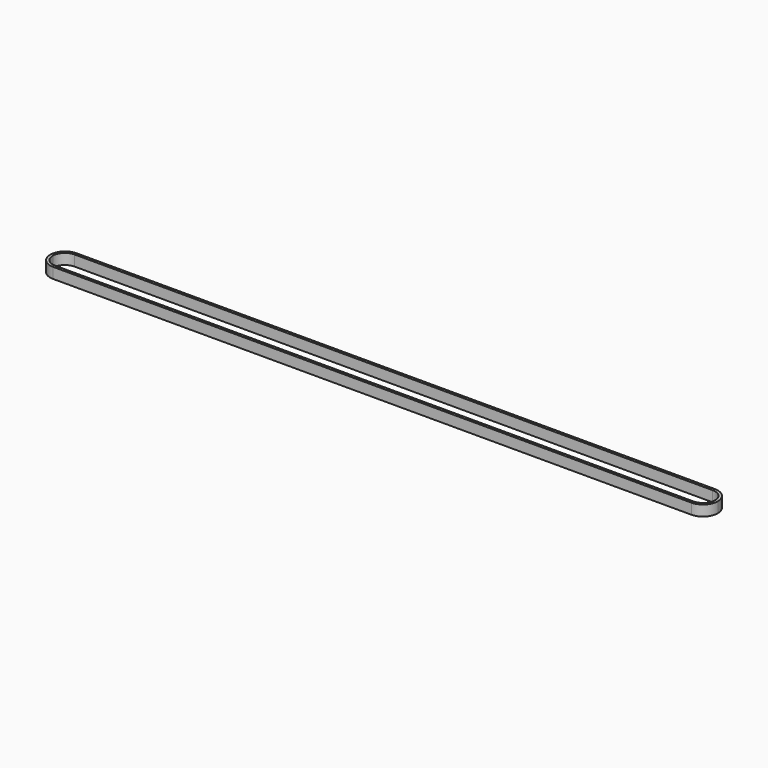
from build123d import *

# Parameters (mm, degrees)
F1_W = 1.5
F1_H = 6


with BuildPart() as f2:
    # F2: sweep along a path in F0
    with BuildLine(Plane.XY) as f2_path:
        Line((0, -7.56), (-180, -7.56))
        ThreePointArc((-180, -7.56), (-185.345727, -5.345727), (-187.56, 0))
        ThreePointArc((-187.56, 0), (-185.345727, 5.345727), (-180, 7.56))
        Line((-180, 7.56), (0, 7.56))
        Line((0, 7.56), (180, 7.56))
        ThreePointArc((180, 7.56), (185.345727, 5.345727), (187.56, 0))
        ThreePointArc((187.56, 0), (185.345727, -5.345727), (180, -7.56))
        Line((180, -7.56), (0, -7.56))
    # F1 (on Right) → F2 (sweep)
    with BuildSketch(Plane.YZ):
        with Locations((-7.56, 0)):
            Rectangle(F1_W, F1_H)
    sweep(path=f2_path.line)


solid = f2.part
